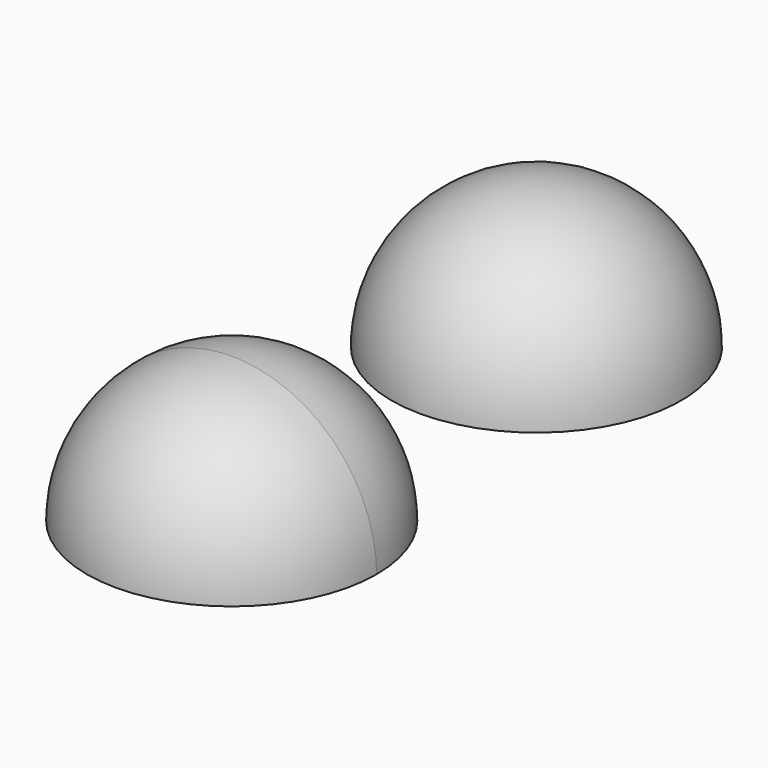
from build123d import *

# Parameters (mm, degrees)
F3_W          = 606.7284047604
F3_H          = 134.0230405331
F4_DEPTH      = 203.2
F4_DEPTH_BACK = 203.2


with BuildPart() as f1:
    # F0 (on Top) → F1 (revolve)
    with BuildSketch(Plane.XY):
        with BuildLine():
            ThreePointArc((116.4110448, -137.4276144), (83.8632858594, -58.8503733406), (5.2860448, -26.3026144))
            Line((5.2860448, -26.3026144), (5.2860448, -134.2526144))
            ThreePointArc((5.2860448, -134.2526144), (7.5311088303, -135.1825503697), (8.4610448, -137.4276144))
            ThreePointArc((8.4610448, -137.4276144), (7.5311088303, -139.6726784303), (5.2860448, -140.6026144))
            Line((5.2860448, -140.6026144), (5.2860448, -248.5526144))
            ThreePointArc((5.2860448, -248.5526144), (83.8632858594, -216.0048554594), (116.4110448, -137.4276144))
        make_face()
        with BuildLine():
            ThreePointArc((8.4610448, -137.4276144), (7.5311088303, -135.1825503697), (5.2860448, -134.2526144))
            Line((5.2860448, -134.2526144), (5.2860448, -140.6026144))
            ThreePointArc((5.2860448, -140.6026144), (7.5311088303, -139.6726784303), (8.4610448, -137.4276144))
        make_face()
    revolve(axis=Axis((5.2860448, -137.4276144, 0), (0, 1, 0)))


with BuildPart() as f2:
    # F0 (on Top) → F2 (revolve)
    with BuildSketch(Plane.XY):
        with BuildLine():
            Line((6.995668, 155.6438086), (6.995668, 263.5938086))
            ThreePointArc((6.995668, 263.5938086), (-104.129332, 152.4688086), (6.995668, 41.3438086))
            Line((6.995668, 41.3438086), (6.995668, 149.2938086))
            ThreePointArc((6.995668, 149.2938086), (4.7506039697, 150.2237445697), (3.820668, 152.4688086))
            ThreePointArc((3.820668, 152.4688086), (4.7506039697, 154.7138726303), (6.995668, 155.6438086))
        make_face()
        with BuildLine():
            Line((6.995668, 149.2938086), (6.995668, 155.6438086))
            ThreePointArc((6.995668, 155.6438086), (4.7506039697, 154.7138726303), (3.820668, 152.4688086))
            ThreePointArc((3.820668, 152.4688086), (4.7506039697, 150.2237445697), (6.995668, 149.2938086))
        make_face()
    revolve(axis=Axis((6.995668, 152.4688086, 0), (0, 1, 0)))


with BuildPart() as f4_tool:
    # F3 (on Right) → F4 (new body, two sides)
    with BuildSketch(Plane.YZ) as f4_sk:
        with Locations((0.1858919859, -67.0115202665)):
            Rectangle(F3_W, F3_H)
    extrude(amount=-F4_DEPTH)
    extrude(f4_sk.sketch, amount=F4_DEPTH_BACK)


with BuildPart() as f1_1:
    add(f1.part)

    # F4: cut by f4_tool
    add(f4_tool.part, mode=Mode.SUBTRACT)


with BuildPart() as f2_1:
    add(f2.part)

    # F4: cut by f4_tool
    add(f4_tool.part, mode=Mode.SUBTRACT)


solid = Compound([f1_1.part, f2_1.part])
